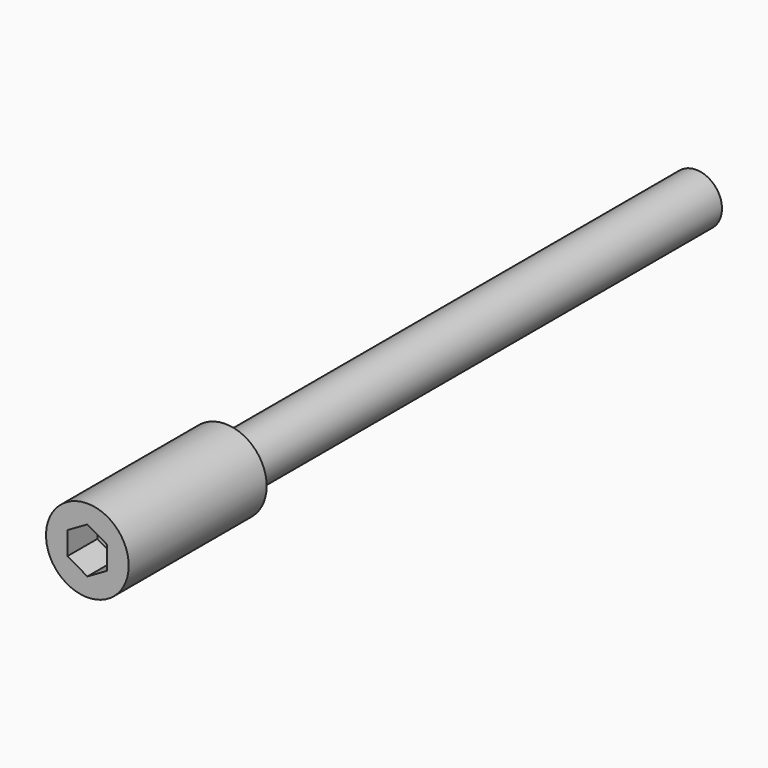
from build123d import *

# Parameters (mm, degrees)
F0_R     = 10
F1_DEPTH = 41.7
F2_R     = 6.25
F3_DEPTH = 142.3
F5_DEPTH = 9


with BuildPart() as f1:
    # F0 (on Front) → F1 (new body)
    with BuildSketch(Plane.XZ):
        Circle(F0_R)
    extrude(amount=-F1_DEPTH)

    # F2 (on face) → F3 (join)
    with BuildSketch(Plane(origin=(0, 41.7, 0), x_dir=(-1, 0, 0), z_dir=(0, 1, 0))):
        Circle(F2_R)
    extrude(amount=F3_DEPTH)

    # F4 (on face) → F5 (cut)
    with BuildSketch(Plane.XZ):
        Polygon((4.8, -2.771281), (4.8, 2.771281), (0, 5.542563), (-4.8, 2.771281), (-4.8, -2.771281), (0, -5.542563), align=None)
    extrude(amount=-F5_DEPTH, mode=Mode.SUBTRACT)


solid = f1.part
